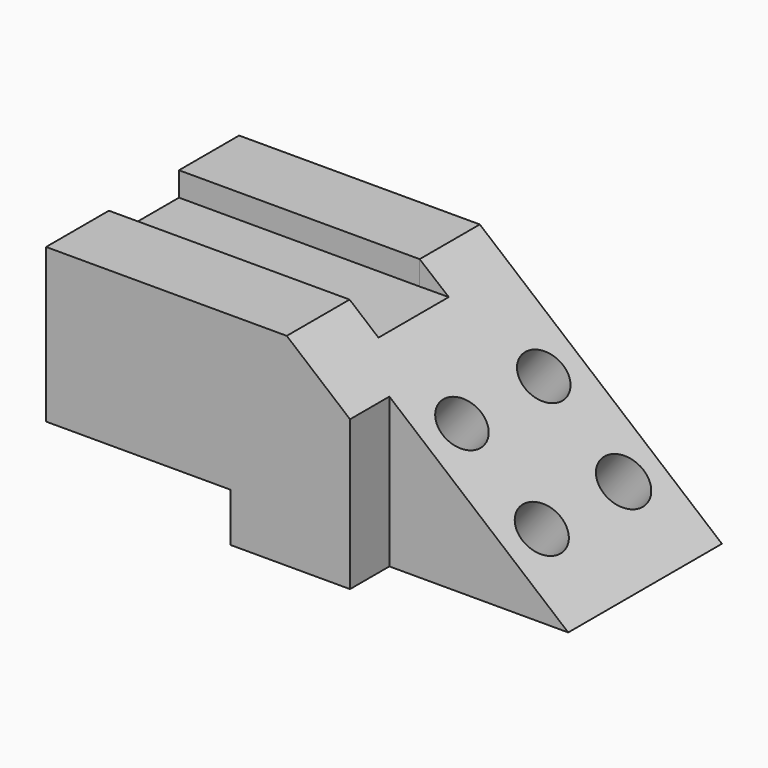
from build123d import *

# Parameters (mm, degrees)
F1_DEPTH = 38.1
F2_W     = 58.2091789693
F2_H     = 15.3594079479
F3_DEPTH = 76.2
F5_DEPTH = 50.8
F6_W     = 76.010748744
F6_H     = 27.6595102623
F7_DEPTH = 7.62
F8_R     = 7.6303567528
F8_R_2   = 7.7116101736
F8_R_3   = 7.8878838381
F9_DEPTH = 38.1


with BuildPart() as f1:
    # F0 (on Front) → F1 (new body, symmetric)
    with BuildSketch(Plane.XZ):
        Polygon((-76.010748744, 63.9190971851), (-76.010748744, 0), (0, 0), (76.4603540301, 0), (0, 63.9190971851), align=None)
    extrude(amount=F1_DEPTH, both=True)

    # F2 (on face) → F3 (cut, symmetric)
    with BuildSketch(Plane.XZ.offset(38.1)):
        with Locations((-46.9061592594, 7.679703974)):
            Rectangle(F2_W, F2_H)
    extrude(amount=F3_DEPTH, both=True, mode=Mode.SUBTRACT)

    # F4 (on Top) → F5 (cut, symmetric)
    with BuildSketch(Plane.XY):
        Polygon((19.974257797, -22.5624050945), (19.974257797, -38.3158996701), (76.5146613121, -38.1380990148), (76.5146613121, -22.5624050945), align=None)
    extrude(amount=F5_DEPTH, both=True, mode=Mode.SUBTRACT)

    # F6 (on face) → F7 (cut)
    with BuildSketch(Plane.XY.offset(63.9190971851)):
        with Locations((-38.005374372, 0.5322289653)):
            Rectangle(F6_W, F6_H)
        Polygon((0, 14.3619840965), (0, -13.2975261658), (15.1856476441, -13.2975261658), (15.1856476441, 14.5155396312), align=None)
    extrude(amount=-F7_DEPTH, mode=Mode.SUBTRACT)

    # F8 (on face) → F9 (cut, symmetric)
    with BuildSketch(Plane(origin=(31.4534289532, 0, 37.6247540897), x_dir=(0.7672228325, 0, -0.6413806399), z_dir=(0.6413806399, 0, 0.7672228325))):
        with Locations((0, -8.2661788911)):
            Circle(F8_R)
        with Locations((32.8613109887, -8.2661788911)):
            Circle(F8_R_2)
        with Locations((0, 24.0339674056)):
            Circle(F8_R)
        with Locations((32.8613109887, 24.0339674056)):
            Circle(F8_R_3)
    extrude(amount=F9_DEPTH, both=True, mode=Mode.SUBTRACT)


solid = f1.part
